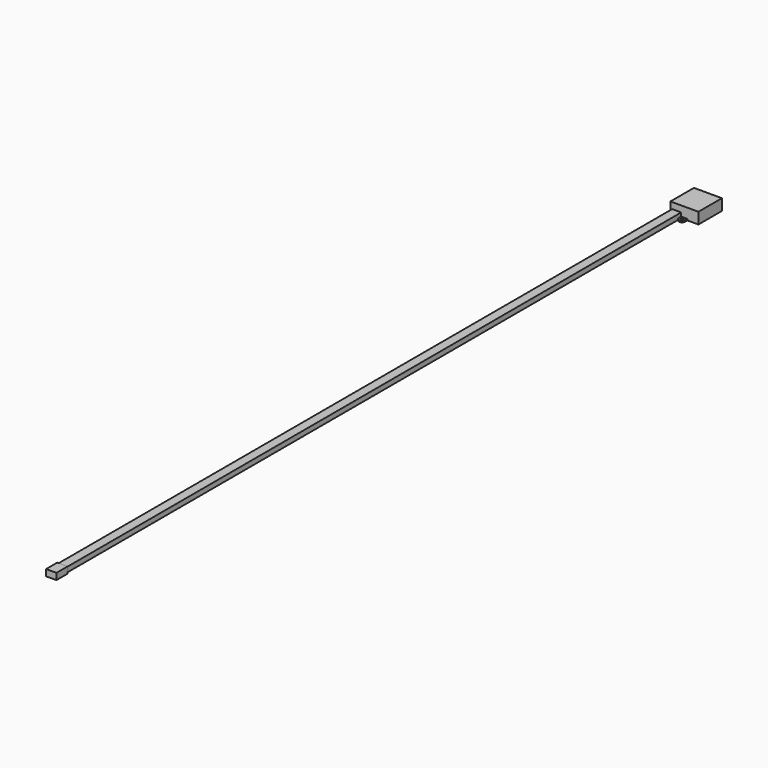
from build123d import *

# Parameters (mm, degrees)
BINDER_W          = 42.6
BINDER_H          = 40.6
PAD002_DEPTH      = 16.3
SKETCH_R          = 1.8
PAD_DEPTH         = 2
SKETCH003_W       = 13.1
SKETCH003_H       = 1114
PAD001_DEPTH      = 7.3
SKETCH004_W       = 15
SKETCH004_H       = 20
PAD003_DEPTH      = 8.3
PAD003_DEPTH_BACK = 1


with BuildPart() as part:
    # Binder → Pad002 (new body)
    with BuildSketch(Plane(origin=(11.3, 21.3, 0), x_dir=(0, 1, 0), z_dir=(0, 0, 1))):
        Rectangle(BINDER_W, BINDER_H)
    extrude(amount=PAD002_DEPTH)

    # Sketch → Pad (join)
    with BuildSketch(Plane(origin=(11.1, 0, 0), x_dir=(-1, 0, 0), z_dir=(0, 0, 1))):
        with BuildLine():
            ThreePointArc((4.5, 4), (0, 8.5), (-4.5, 4))
            Line((-4.5, 4), (-4.5, 0))
            Line((-4.5, 0), (4.5, 0))
            Line((4.5, 0), (4.5, 4))
        make_face()
        with Locations((0, 4)):
            Circle(SKETCH_R, mode=Mode.SUBTRACT)
    extrude(amount=PAD_DEPTH)

    # Sketch003 → Pad001 (join)
    with BuildSketch(Plane.XY):
        with Locations((0, -557)):
            Rectangle(SKETCH003_W, SKETCH003_H)
    extrude(amount=PAD001_DEPTH)

    # Sketch004 → Pad003 (join, two sides)
    with BuildSketch(Plane.XY) as pad003_sk:
        with Locations((0, -1124)):
            Rectangle(SKETCH004_W, SKETCH004_H)
    extrude(amount=PAD003_DEPTH)
    extrude(pad003_sk.sketch, amount=-PAD003_DEPTH_BACK)


solid = part.part
